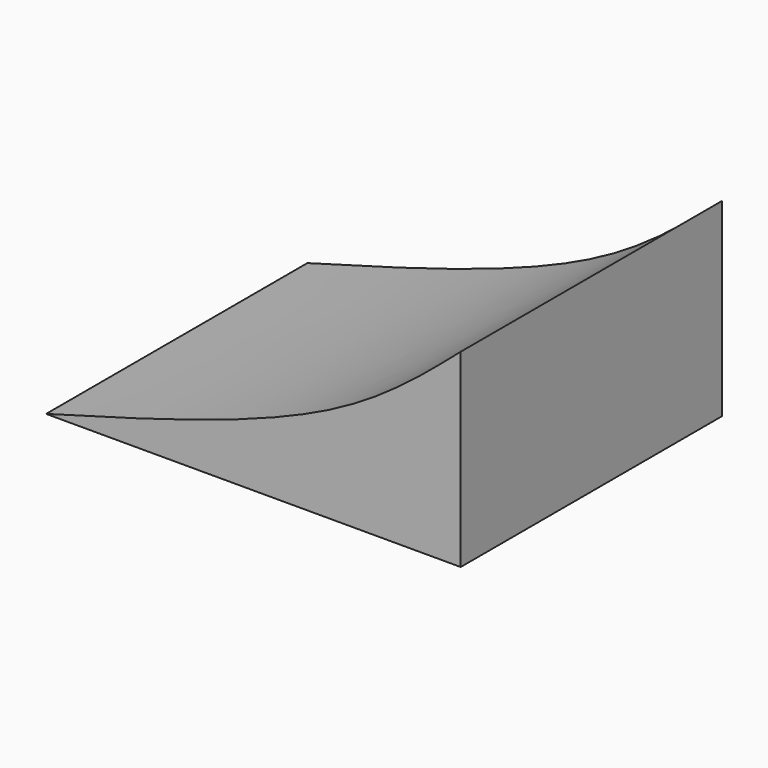
from build123d import *

# Parameters (mm, degrees)
F1_DEPTH = 101.6


with BuildPart() as f1:
    # F0 (on Front) → F1 (new body)
    with BuildSketch(Plane.XZ):
        with BuildLine():
            add(Edge.make_bspline(
                [(-65.7279863954, 0), (-32.915620604, 9.1037854477), (23.7475828387, 24.8249818466), (51.5627990573, 48.8540251071), (63.2708594203, 58.96839872)],
                knots=[0, 0, 0, 0, 0.57907714, 1, 1, 1, 1], degree=3))
            Line((-65.7279863954, 0), (63.2708594203, 0))
            Line((63.2708594203, 0), (63.2708594203, 58.96839872))
        make_face()
    extrude(amount=F1_DEPTH)


solid = f1.part
